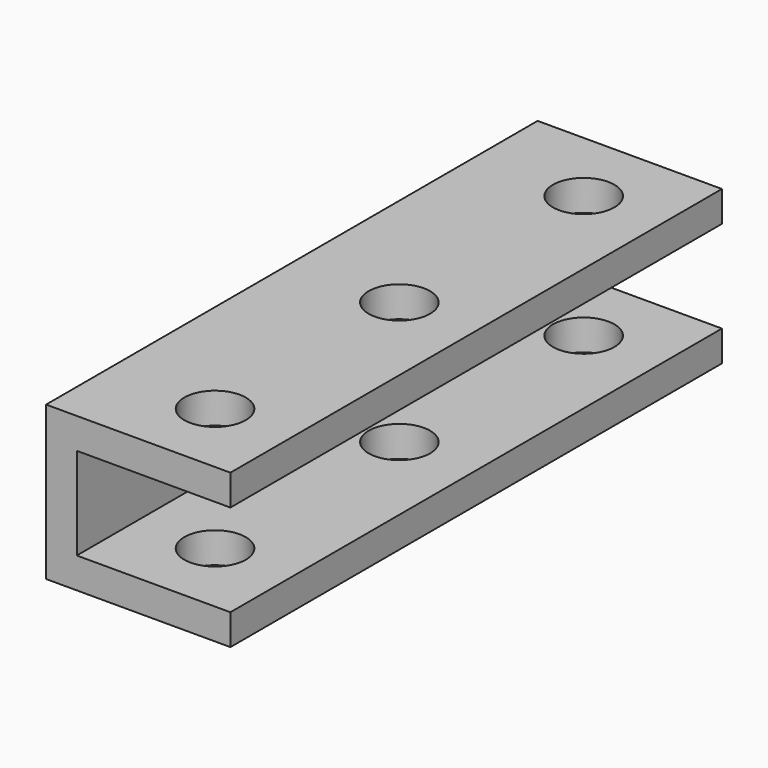
from build123d import *

# Parameters (mm, degrees)
F1_DEPTH = 10
F2_R     = 1
F3_DEPTH = 2.5
F4_R     = 1
F5_DEPTH = 5


with BuildPart() as f1:
    # F0 (on Front) → F1 (new body, symmetric)
    with BuildSketch(Plane.XZ):
        Polygon((-2.5, 1.5), (2.5, 1.5), (2.5, 2.5), (-3.5, 2.5), (-3.5, -2.5), (2.5, -2.5), (2.5, -1.5), (-2.5, -1.5), align=None)
    extrude(amount=F1_DEPTH, both=True)

    # F2 (on Top) → F3 (cut, symmetric)
    with BuildSketch(Plane.XY):
        with Locations((0, 7.5)):
            Circle(F2_R)
        with Locations((0, -7.5)):
            Circle(F2_R)
        Circle(F2_R)
    extrude(amount=F3_DEPTH, both=True, mode=Mode.SUBTRACT)

    # F4 (on Right) → F5 (cut, symmetric)
    with BuildSketch(Plane.YZ):
        Circle(F4_R)
    extrude(amount=F5_DEPTH, both=True, mode=Mode.SUBTRACT)


solid = f1.part
